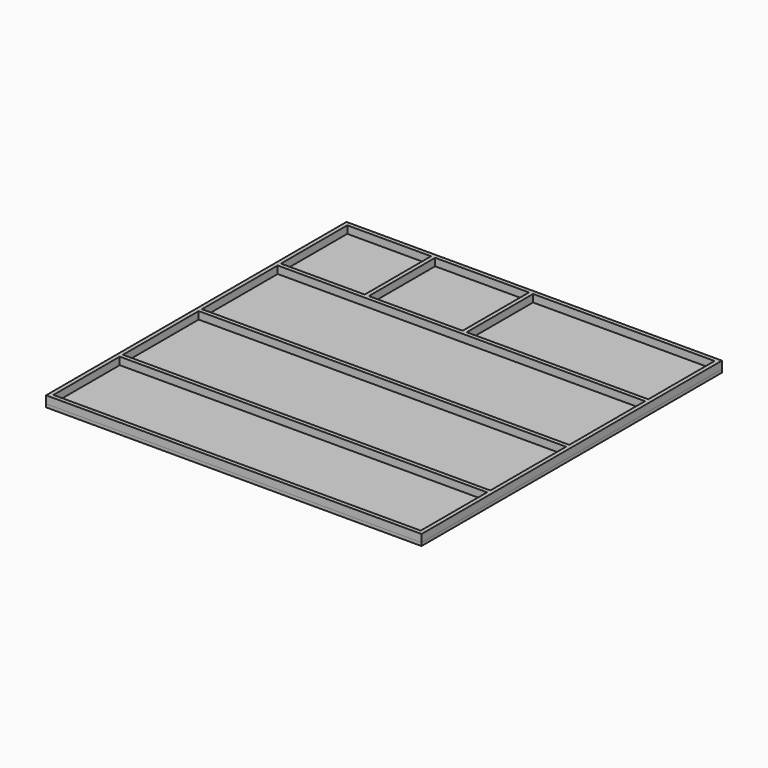
from build123d import *

# Parameters (mm, degrees)
F0_W     = 1174
F0_H     = 265
F0_H_2   = 302.5
F0_W_2   = 267.8023775816
F0_W_3   = 300
F0_W_4   = 580.1976224184
F0_W_5   = 13
F0_H_3   = 13
F1_DEPTH = 10
F2_START = 10
F2_DEPTH = 24


with BuildPart() as f1:
    # F0 (on Top) → F1 (new body)
    with BuildSketch(Plane.XY):
        Polygon((13, 0), (0, 0), (0, -1200), (13, -1200), (13, -1187), (13, -922), (13, -909), (13, -606.5), (13, -593.5), (13, -291), (13, -278), (13, -13), align=None)
        Polygon((1187, 0), (13, 0), (13, -13), (280.8023775816, -13), (293.8023775816, -13), (593.8023775816, -13), (606.8023775816, -13), (1187, -13), align=None)
        Polygon((1200, 0), (1187, 0), (1187, -13), (1187, -278), (1187, -291), (1187, -593.5), (1187, -606.5), (1187, -909), (1187, -922), (1187, -1187), (1200, -1187), align=None)
        Polygon((13, -1187), (13, -1200), (1200, -1200), (1200, -1187), (1187, -1187), align=None)
        with Locations((600, -1054.5)):
            Rectangle(F0_W, F0_H)
        with Locations((600, -757.75)):
            Rectangle(F0_W, F0_H_2)
        with Locations((600, -442.25)):
            Rectangle(F0_W, F0_H_2)
        with Locations((146.9011887908, -145.5)):
            Rectangle(F0_W_2, F0_H)
        with Locations((443.8023775816, -145.5)):
            Rectangle(F0_W_3, F0_H)
        with Locations((896.9011887908, -145.5)):
            Rectangle(F0_W_4, F0_H)
        with Locations((287.3023775816, -145.5)):
            Rectangle(F0_W_5, F0_H)
        Polygon((280.8023775816, -278), (13, -278), (13, -291), (1187, -291), (1187, -278), (606.8023775816, -278), (593.8023775816, -278), (293.8023775816, -278), align=None)
        with Locations((600.3023775816, -145.5)):
            Rectangle(F0_W_5, F0_H)
        with Locations((600, -600)):
            Rectangle(F0_W, F0_H_3)
        with Locations((600, -915.5)):
            Rectangle(F0_W, F0_H_3)
    extrude(amount=F1_DEPTH)


with BuildPart() as f2:
    # F0 (on Top) → F2 (new body)
    with BuildSketch(Plane.XY.offset(F2_START)):
        Polygon((13, 0), (0, 0), (0, -1200), (13, -1200), (13, -1187), (13, -922), (13, -909), (13, -606.5), (13, -593.5), (13, -291), (13, -278), (13, -13), align=None)
        with Locations((600, -915.5)):
            Rectangle(F0_W, F0_H_3)
        Polygon((13, -1187), (13, -1200), (1200, -1200), (1200, -1187), (1187, -1187), align=None)
        Polygon((1200, 0), (1187, 0), (1187, -13), (1187, -278), (1187, -291), (1187, -593.5), (1187, -606.5), (1187, -909), (1187, -922), (1187, -1187), (1200, -1187), align=None)
        with Locations((600, -600)):
            Rectangle(F0_W, F0_H_3)
        Polygon((280.8023775816, -278), (13, -278), (13, -291), (1187, -291), (1187, -278), (606.8023775816, -278), (593.8023775816, -278), (293.8023775816, -278), align=None)
        with Locations((600.3023775816, -145.5)):
            Rectangle(F0_W_5, F0_H)
        with Locations((287.3023775816, -145.5)):
            Rectangle(F0_W_5, F0_H)
        Polygon((1187, 0), (13, 0), (13, -13), (280.8023775816, -13), (293.8023775816, -13), (593.8023775816, -13), (606.8023775816, -13), (1187, -13), align=None)
    extrude(amount=F2_DEPTH)


solid = Compound([f1.part, f2.part])
